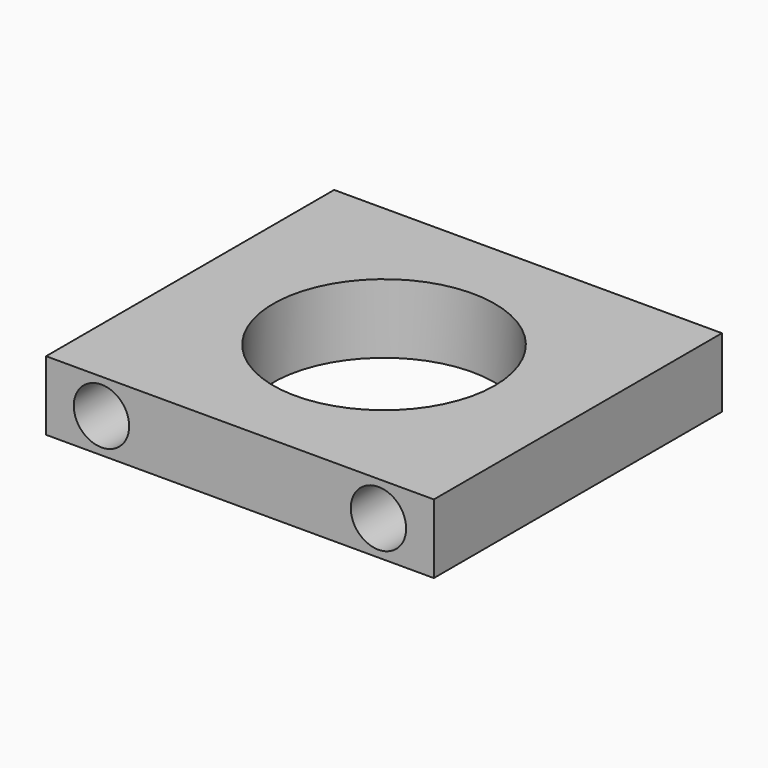
from build123d import *

# Parameters (mm, degrees)
SKETCH_W     = 28
SKETCH_H     = 26
SKETCH_R     = 8
PAD_DEPTH    = 5
SKETCH001_R  = 2
POCKET_DEPTH = 26.001


with BuildPart() as part:
    # Sketch → Pad (new body)
    with BuildSketch(Plane.XY):
        Rectangle(SKETCH_W, SKETCH_H)
        Circle(SKETCH_R, mode=Mode.SUBTRACT)
    extrude(amount=PAD_DEPTH)

    # Sketch001 (on Face3 of Pad) → Pocket (cut, through all)
    with BuildSketch(Plane.XZ.offset(13)):
        with Locations((10, 2.5)):
            Circle(SKETCH001_R)
        with Locations((-10, 2.5)):
            Circle(SKETCH001_R)
    extrude(amount=-POCKET_DEPTH, mode=Mode.SUBTRACT)


solid = part.part
